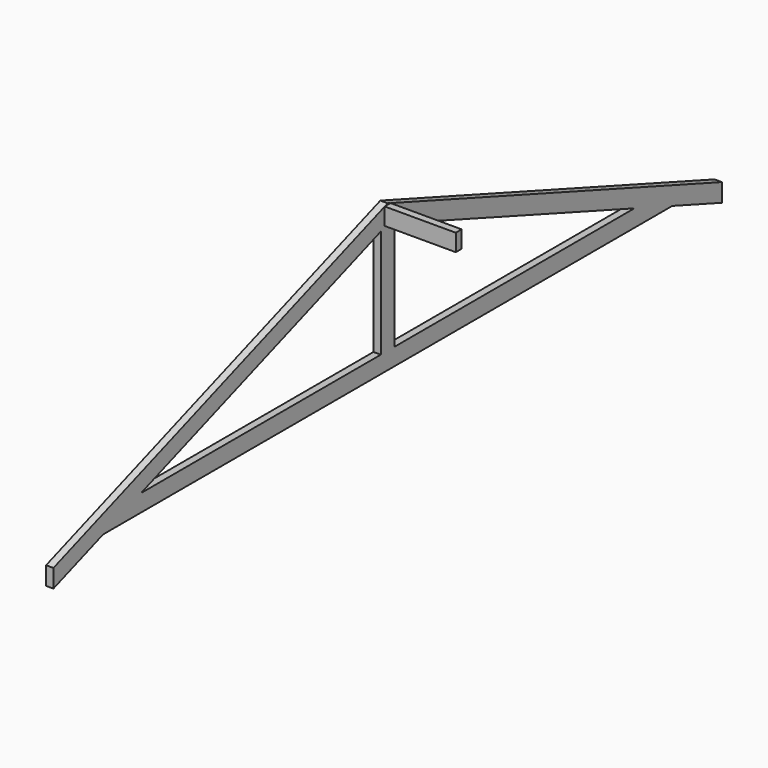
from build123d import *

# Parameters (mm, degrees)
F1_DEPTH = 38.1
F2_W     = 38.1
F2_H     = 88.9
F3_DEPTH = 368.3


with BuildPart() as f1:
    # F0 (on Right) → F1 (new body)
    with BuildSketch(Plane.YZ):
        Polygon((1598.979778, 88.9), (1844.675, 0), (2166.60807, -116.485171), (2166.60807, -21.944661), (0, 762), (0, 667.45949), (44.45, 651.376129), align=None)
        Polygon((-2166.60807, -116.485171), (-1844.675, 0), (-1598.979778, 88.9), (-44.45, 651.376129), (0, 667.45949), (0, 762), (-2166.60807, -21.944661), align=None)
        Polygon((0, 667.45949), (-44.45, 651.376129), (-44.45, 88.9), (44.45, 88.9), (44.45, 651.376129), align=None)
        Polygon((-1598.979778, 88.9), (-1844.675, 0), (1844.675, 0), (1598.979778, 88.9), (44.45, 88.9), (-44.45, 88.9), align=None)
    extrude(amount=F1_DEPTH)


with BuildPart() as f3:
    # F2 (on face) → F3 (new body)
    with BuildSketch(Plane.YZ.offset(38.1)):
        with Locations((0, 710.657131)):
            Rectangle(F2_W, F2_H)
    extrude(amount=F3_DEPTH)


solid = Compound([f1.part, f3.part])
